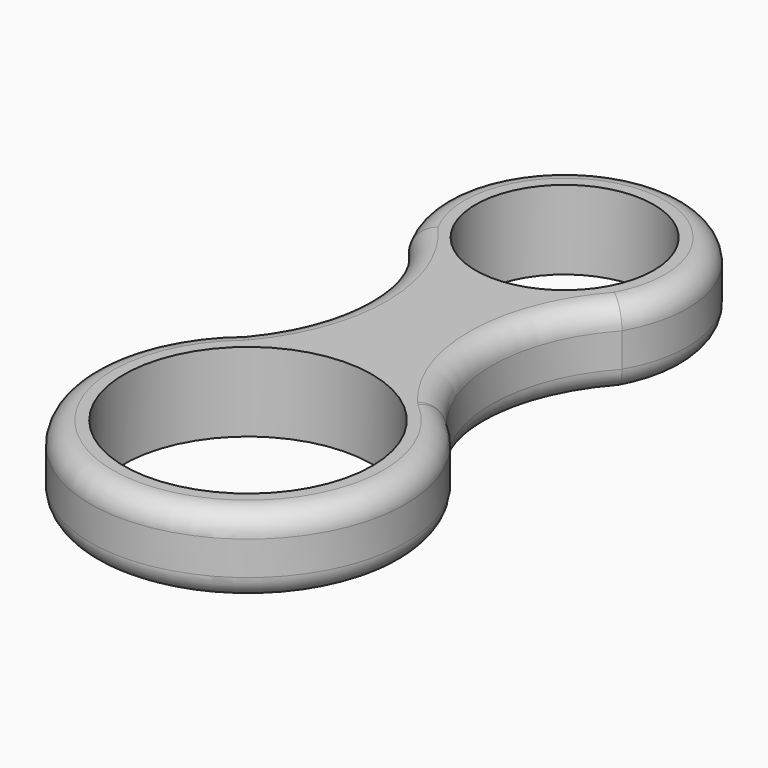
from build123d import *

# Parameters (mm, degrees)
F0_R     = 11
F0_R_2   = 7.9
F1_DEPTH = 7
F2_R     = 2


with BuildPart() as f1:
    # F0 (on Top) → F1 (new body)
    with BuildSketch(Plane.XY):
        with BuildLine():
            ThreePointArc((-9.4396769012, 29.65), (-5.6554937849, 20.2702904388), (-8.9990265356, 10.7246222037))
            ThreePointArc((-8.9990265356, 10.7246222037), (0, -14), (8.9990265356, 10.7246222037))
            ThreePointArc((8.9990265356, 10.7246222037), (5.6554937849, 20.2702904388), (9.4396769012, 29.65))
            ThreePointArc((9.4396769012, 29.65), (0, 46), (-9.4396769012, 29.65))
        make_face()
        Circle(F0_R, mode=Mode.SUBTRACT)
        with Locations((0, 35.1)):
            Circle(F0_R_2, mode=Mode.SUBTRACT)
    extrude(amount=F1_DEPTH)

    # F2 (call 1 of 2: OpenCascade refuses the feature's edges together)
    f2_edges = [f1.edges().sort_by_distance(p)[0] for p in [
        (-5.655494, 20.27029, 7),
        (0, 46, 7),
        (5.655494, 20.27029, 7),
        (0, -14, 7),
    ]]
    fillet(f2_edges, radius=F2_R)

    # F2#2 (call 2 of 2)
    f2_2_edges = [f1.edges().sort_by_distance(p)[0] for p in [
        (0, -14, 0),
        (5.655494, 20.27029, 0),
        (0, 46, 0),
        (-5.655494, 20.27029, 0),
    ]]
    fillet(f2_2_edges, radius=F2_R)


solid = f1.part
